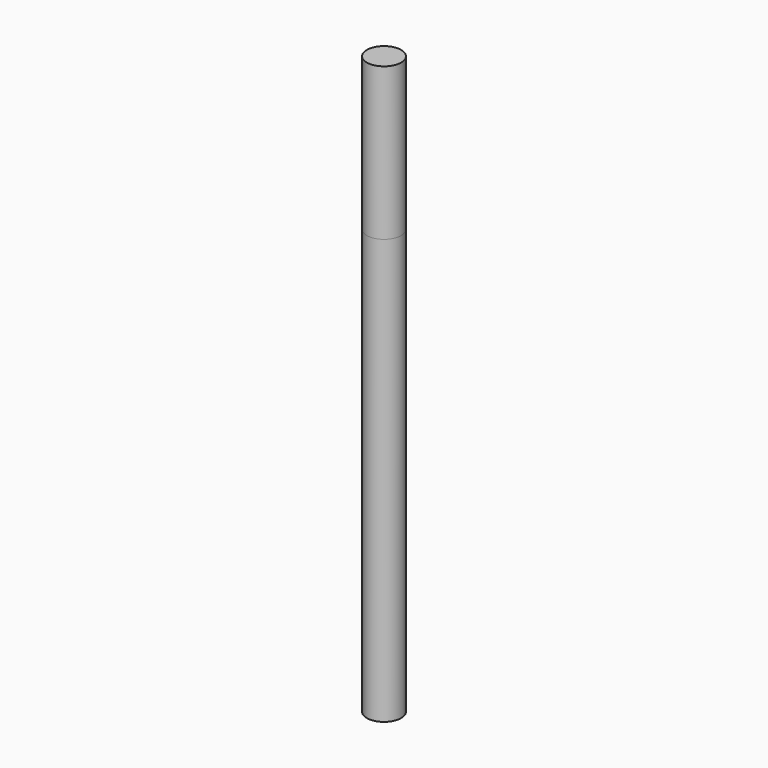
from build123d import *

# Parameters (mm, degrees)
F0_R     = 4
F0_R_2   = 2.4
F1_DEPTH = 85
F2_DEPTH = 14.6
F3_DEPTH = 49.5


with BuildPart() as f1:
    # F0 (on Top) → F1 (new body)
    with BuildSketch(Plane.XY):
        Circle(F0_R)
        Circle(F0_R_2, mode=Mode.SUBTRACT)
        Circle(F0_R_2)
    extrude(amount=F1_DEPTH)

    # F0 (on Top) → F2 (join)
    with BuildSketch(Plane.XY):
        Circle(F0_R_2)
    extrude(amount=-F2_DEPTH)


with BuildPart() as f3:
    # F0 (on Top) → F3 (new body, symmetric)
    with BuildSketch(Plane.XY):
        Circle(F0_R)
        Circle(F0_R_2, mode=Mode.SUBTRACT)
        Circle(F0_R_2)
    extrude(amount=F3_DEPTH, both=True)


solid = Compound([f1.part, f3.part])
